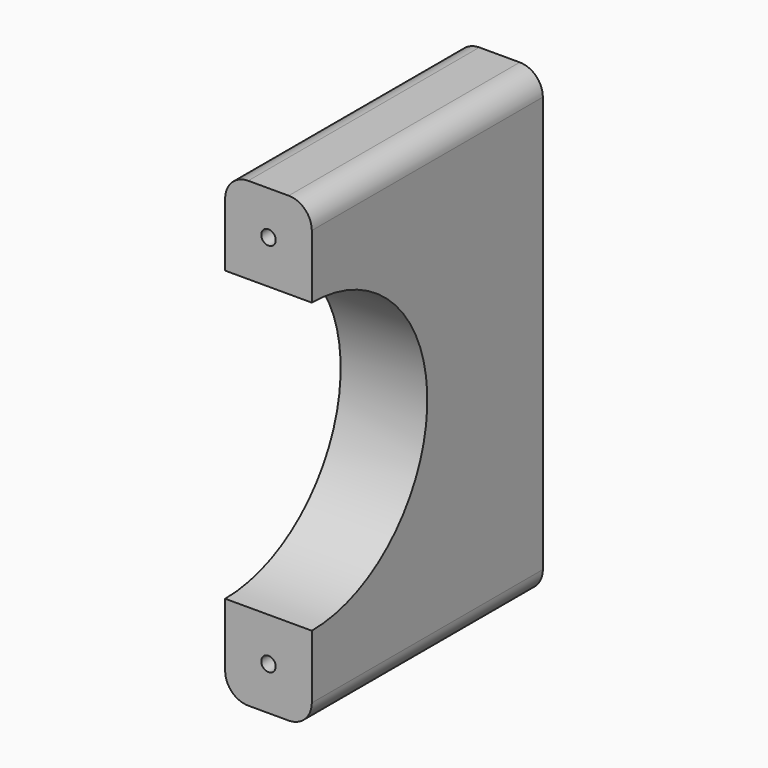
from build123d import *

# Parameters (mm, degrees)
F0_W     = 19.05
F0_H     = 101.6
F1_DEPTH = 63.5
F3_R     = 31.75
F4_DEPTH = 19.05
F6_R     = 1.5875
F7_DEPTH = 63.5
F8_R     = 5.08


with BuildPart() as f1:
    # F0 (on Front) → F1 (new body)
    with BuildSketch(Plane.XZ):
        Rectangle(F0_W, F0_H)
    extrude(amount=F1_DEPTH)

    # F3 (on offset) → F4 (cut)
    with BuildSketch(Plane(origin=(-9.525, 0, 0), x_dir=(0, -1, 0), z_dir=(-1, 0, 0))):
        with Locations((63.5, 0)):
            Circle(F3_R)
    extrude(amount=-F4_DEPTH, mode=Mode.SUBTRACT)

    # F6 (on offset) → F7 (cut)
    with BuildSketch(Plane.XZ.offset(63.5)):
        with Locations((0, 41.275)):
            Circle(F6_R)
        with Locations((0, -41.275)):
            Circle(F6_R)
    extrude(amount=-F7_DEPTH, mode=Mode.SUBTRACT)

    # F8
    f8_edges = [f1.edges().sort_by_distance(p)[0] for p in [
        (-9.525, -31.75, 50.8),
        (-9.525, -31.75, -50.8),
        (9.525, -31.75, -50.8),
        (9.525, -31.75, 50.8),
    ]]
    fillet(f8_edges, radius=F8_R)


solid = f1.part
